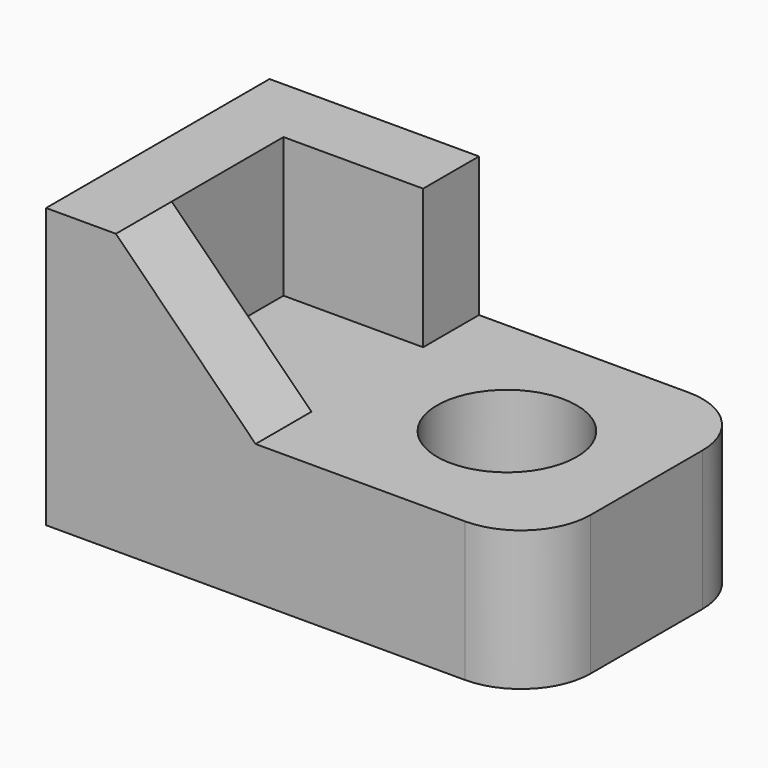
from build123d import *

# Parameters (mm, degrees)
F0_R     = 10
F1_DEPTH = 20
F3_DEPTH = 20
F5_DEPTH = 10


with BuildPart() as f1:
    # F0 (on Top) → F1 (new body)
    with BuildSketch(Plane.XY):
        with BuildLine():
            Line((-35, 20), (-35, -20))
            Line((-35, -20), (25, -20))
            ThreePointArc((25, -20), (32.071068, -17.071068), (35, -10))
            Line((35, -10), (35, 10))
            ThreePointArc((35, 10), (32.071068, 17.071068), (25, 20))
            Line((25, 20), (-35, 20))
        make_face()
        with Locations((15, 0)):
            Circle(F0_R, mode=Mode.SUBTRACT)
    extrude(amount=F1_DEPTH)

    # F2 (on face) → F3 (join)
    with BuildSketch(Plane.XY.offset(20)):
        Polygon((-5, 20), (-35, 20), (-35, -20), (-5, -20), (-5, -10), (-25, -10), (-25, 10), (-5, 10), align=None)
    extrude(amount=F3_DEPTH)

    # F4 (on face) → F5 (cut, through all)
    with BuildSketch(Plane.XZ.offset(20)):
        Polygon((-25, 40), (-5, 20), (-5, 40), align=None)
    extrude(amount=-F5_DEPTH, mode=Mode.SUBTRACT)


solid = f1.part
